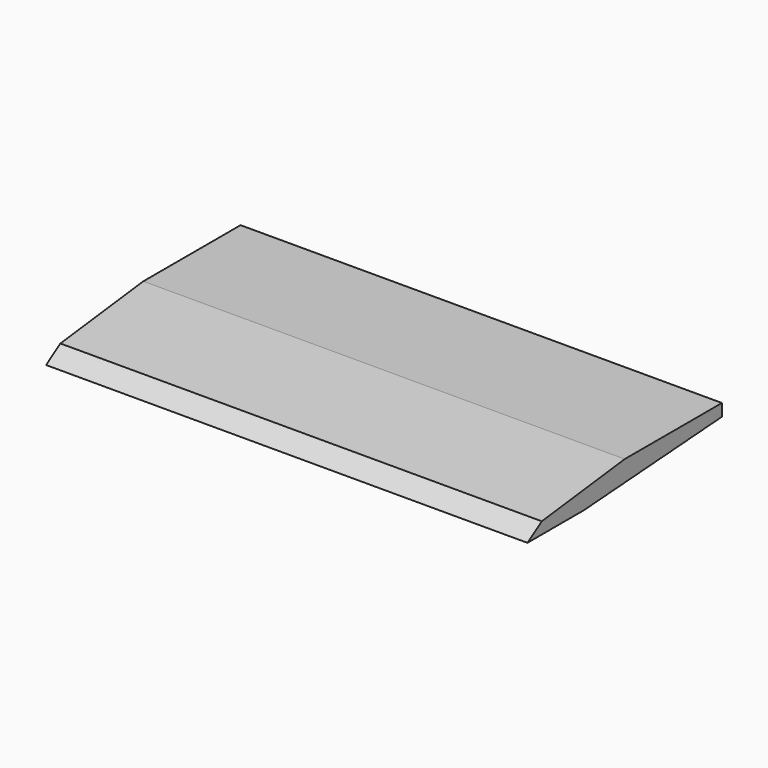
from build123d import *

# Parameters (mm, degrees)
F0_W     = 99
F0_H     = 50
F1_DEPTH = 5
F3_DEPTH = 127
F5_DEPTH = 152.4


with BuildPart() as f1:
    # F0 (on Top) → F1 (new body)
    with BuildSketch(Plane.XY):
        Rectangle(F0_W, F0_H)
    extrude(amount=F1_DEPTH)

    # F2 (on face) → F3 (cut)
    with BuildSketch(Plane.YZ.offset(49.5)):
        Polygon((-21.321116, 2.410467), (0, 5), (-25, 5), (-25, 0), align=None)
    extrude(amount=-F3_DEPTH, mode=Mode.SUBTRACT)

    # F4 (on face) → F5 (cut)
    with BuildSketch(Plane.YZ.offset(49.5)):
        Polygon((25, 2.5), (-10.516109, 0), (25, 0), align=None)
    extrude(amount=-F5_DEPTH, mode=Mode.SUBTRACT)


solid = f1.part
